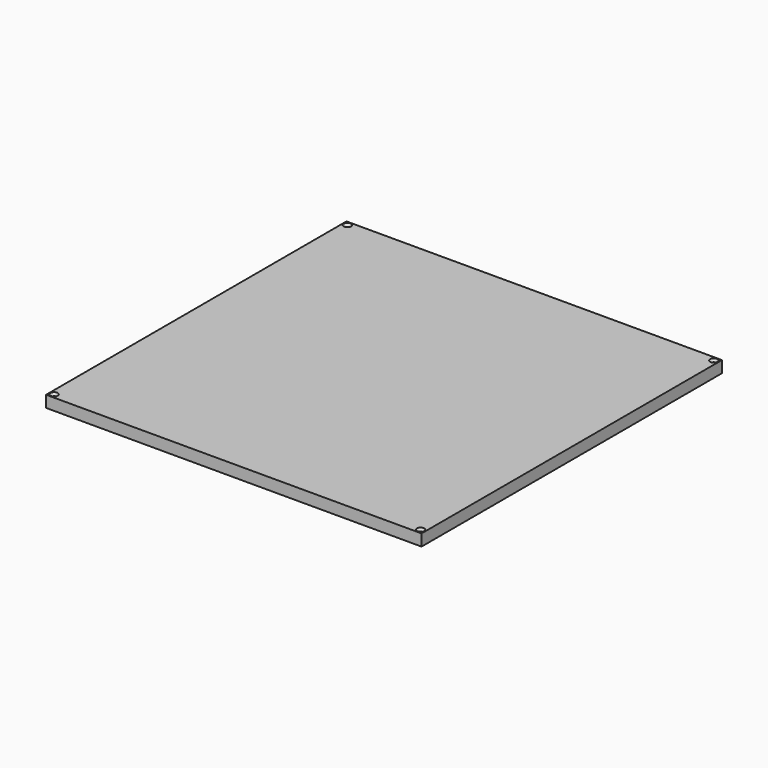
from build123d import *

# Parameters (mm, degrees)
F0_W     = 420
F0_H     = 420
F0_R     = 1.6
F1_DEPTH = 13
F2_SIZE  = 2.5


with BuildPart() as f1:
    # F0 (on Top) → F1 (new body)
    with BuildSketch(Plane.XY):
        Rectangle(F0_W, F0_H)
        with Locations((-205, -205)):
            Circle(F0_R, mode=Mode.SUBTRACT)
        with Locations((205, -205)):
            Circle(F0_R, mode=Mode.SUBTRACT)
        with Locations((-205, 205)):
            Circle(F0_R, mode=Mode.SUBTRACT)
        with Locations((205, 205)):
            Circle(F0_R, mode=Mode.SUBTRACT)
    extrude(amount=F1_DEPTH)

    # F2
    f2_edges = [f1.edges().sort_by_distance(p)[0] for p in [
        (203.4, 205, 13),
        (203.4, -205, 13),
        (-206.6, -205, 13),
        (-206.6, 205, 13),
    ]]
    chamfer(f2_edges, length=F2_SIZE)


solid = f1.part
